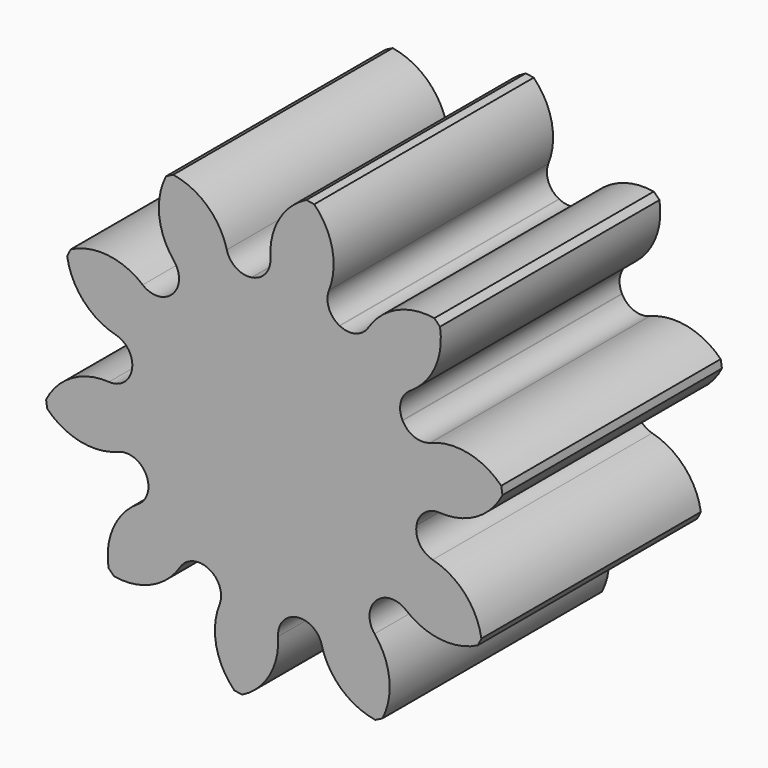
from build123d import *

# Parameters (mm, degrees)
F1_DEPTH = 25


with BuildPart() as f1:
    # F0 (on Front) → F1 (new body)
    with BuildSketch(Plane.XZ):
        with BuildLine():
            ThreePointArc((-0.348561, 15.07019), (-0.783748, 13.691524), (-2.03445, 12.966366))
            ThreePointArc((-2.03445, 12.966366), (-2.044108, 12.964847), (-2.053766, 12.96332))
            ThreePointArc((-2.053766, 12.96332), (-2.063307, 12.961805), (-2.072847, 12.960283))
            ThreePointArc((-2.072847, 12.960283), (-3.48649, 13.263394), (-4.326471, 14.440126))
            ThreePointArc((-4.326471, 14.440126), (-6.102339, 17.389838), (-9.209645, 18.872796))
            ThreePointArc((-9.209645, 18.872796), (-9.534613, 18.710723), (-9.856731, 18.543054))
            ThreePointArc((-9.856731, 18.543054), (-10.48276, 15.157493), (-9.140028, 11.987161))
            ThreePointArc((-9.140028, 11.987161), (-8.681741, 10.616), (-9.267343, 9.294191))
            ThreePointArc((-9.267343, 9.294191), (-9.274264, 9.287285), (-9.28118, 9.280373))
            ThreePointArc((-9.28118, 9.280373), (-9.288008, 9.273539), (-9.294832, 9.2667))
            ThreePointArc((-9.294832, 9.2667), (-10.616657, 8.681004), (-11.987881, 9.139271))
            ThreePointArc((-11.987881, 9.139271), (-15.158386, 10.48181), (-18.54391, 9.85512))
            ThreePointArc((-18.54391, 9.85512), (-18.711551, 9.532987), (-18.873597, 9.208005))
            ThreePointArc((-18.873597, 9.208005), (-17.390082, 6.101058), (-14.440314, 4.325444))
            ThreePointArc((-14.440314, 4.325444), (-13.263604, 3.485525), (-12.960426, 2.071951))
            ThreePointArc((-12.960426, 2.071951), (-12.961966, 2.062295), (-12.963499, 2.052639))
            ThreePointArc((-12.963499, 2.052639), (-12.965006, 2.043097), (-12.966506, 2.033553))
            ThreePointArc((-12.966506, 2.033553), (-13.691622, 0.782765), (-15.070328, 0.347526))
            ThreePointArc((-15.070328, 0.347526), (-18.424445, -0.429914), (-20.795033, -2.926878))
            ThreePointArc((-20.795033, -2.926878), (-20.741312, -3.286025), (-20.68139, -3.64419))
            ThreePointArc((-20.68139, -3.64419), (-17.654983, -5.285774), (-14.224891, -4.988446))
            ThreePointArc((-14.224891, -4.988446), (-12.779221, -4.976302), (-11.703067, -5.941704))
            ThreePointArc((-11.703067, -5.941704), (-11.698638, -5.95042), (-11.694202, -5.959133))
            ThreePointArc((-11.694202, -5.959133), (-11.689812, -5.96774), (-11.685416, -5.976342))
            ThreePointArc((-11.685416, -5.976342), (-11.536853, -7.414464), (-12.396423, -8.576962))
            ThreePointArc((-12.396423, -8.576962), (-14.652992, -11.177425), (-15.103159, -14.590907))
            ThreePointArc((-15.103159, -14.590907), (-14.848597, -14.849888), (-14.589595, -15.104427))
            ThreePointArc((-14.589595, -15.104427), (-11.176282, -14.65362), (-8.576044, -12.396919))
            ThreePointArc((-8.576044, -12.396919), (-7.41361, -11.537351), (-5.975534, -11.68583))
            ThreePointArc((-5.975534, -11.68583), (-5.966827, -11.690278), (-5.958117, -11.69472))
            ThreePointArc((-5.958117, -11.69472), (-5.949507, -11.699102), (-5.940895, -11.703478))
            ThreePointArc((-5.940895, -11.703478), (-4.975398, -12.779619), (-4.987505, -14.225343))
            ThreePointArc((-4.987505, -14.225343), (-5.284594, -17.65554), (-3.642392, -20.681706))
            ThreePointArc((-3.642392, -20.681706), (-3.284223, -20.741598), (-2.925071, -20.795287))
            ThreePointArc((-2.925071, -20.795287), (-0.42862, -18.424281), (0.348561, -15.07019))
            ThreePointArc((0.348561, -15.07019), (0.783748, -13.691524), (2.03445, -12.966366))
            ThreePointArc((2.03445, -12.966366), (2.044108, -12.964847), (2.053766, -12.96332))
            ThreePointArc((2.053766, -12.96332), (2.063307, -12.961805), (2.072847, -12.960283))
            ThreePointArc((2.072847, -12.960283), (3.48649, -13.263394), (4.326471, -14.440126))
            ThreePointArc((4.326471, -14.440126), (6.102339, -17.389838), (9.209645, -18.872796))
            ThreePointArc((9.209645, -18.872796), (9.534613, -18.710723), (9.856731, -18.543054))
            ThreePointArc((9.856731, -18.543054), (10.48276, -15.157493), (9.140028, -11.987161))
            ThreePointArc((9.140028, -11.987161), (8.681741, -10.616), (9.267343, -9.294191))
            ThreePointArc((9.267343, -9.294191), (9.274264, -9.287285), (9.28118, -9.280373))
            ThreePointArc((9.28118, -9.280373), (9.288008, -9.273539), (9.294832, -9.2667))
            ThreePointArc((9.294832, -9.2667), (10.616657, -8.681004), (11.987881, -9.139271))
            ThreePointArc((11.987881, -9.139271), (15.158386, -10.48181), (18.54391, -9.85512))
            ThreePointArc((18.54391, -9.85512), (18.711551, -9.532987), (18.873597, -9.208005))
            ThreePointArc((18.873597, -9.208005), (17.390082, -6.101058), (14.440314, -4.325444))
            ThreePointArc((14.440314, -4.325444), (13.263604, -3.485525), (12.960426, -2.071951))
            ThreePointArc((12.960426, -2.071951), (12.961966, -2.062295), (12.963499, -2.052639))
            ThreePointArc((12.963499, -2.052639), (12.965006, -2.043097), (12.966506, -2.033553))
            ThreePointArc((12.966506, -2.033553), (13.691622, -0.782765), (15.070328, -0.347526))
            ThreePointArc((15.070328, -0.347526), (18.424445, 0.429914), (20.795033, 2.926878))
            ThreePointArc((20.795033, 2.926878), (20.741312, 3.286025), (20.68139, 3.64419))
            ThreePointArc((20.68139, 3.64419), (17.654983, 5.285774), (14.224891, 4.988446))
            ThreePointArc((14.224891, 4.988446), (12.779221, 4.976302), (11.703067, 5.941704))
            ThreePointArc((11.703067, 5.941704), (11.698638, 5.95042), (11.694202, 5.959133))
            ThreePointArc((11.694202, 5.959133), (11.689812, 5.96774), (11.685416, 5.976342))
            ThreePointArc((11.685416, 5.976342), (11.536853, 7.414464), (12.396423, 8.576962))
            ThreePointArc((12.396423, 8.576962), (14.652992, 11.177425), (15.103159, 14.590907))
            ThreePointArc((15.103159, 14.590907), (14.848597, 14.849888), (14.589595, 15.104427))
            ThreePointArc((14.589595, 15.104427), (11.176282, 14.65362), (8.576044, 12.396919))
            ThreePointArc((8.576044, 12.396919), (7.41361, 11.537351), (5.975534, 11.68583))
            ThreePointArc((5.975534, 11.68583), (5.966827, 11.690278), (5.958117, 11.69472))
            ThreePointArc((5.958117, 11.69472), (5.949507, 11.699102), (5.940895, 11.703478))
            ThreePointArc((5.940895, 11.703478), (4.975398, 12.779619), (4.987505, 14.225343))
            ThreePointArc((4.987505, 14.225343), (5.284594, 17.65554), (3.642392, 20.681706))
            ThreePointArc((3.642392, 20.681706), (3.284223, 20.741598), (2.925071, 20.795287))
            ThreePointArc((2.925071, 20.795287), (0.42862, 18.424281), (-0.348561, 15.07019))
        make_face()
    extrude(amount=F1_DEPTH)


solid = f1.part
